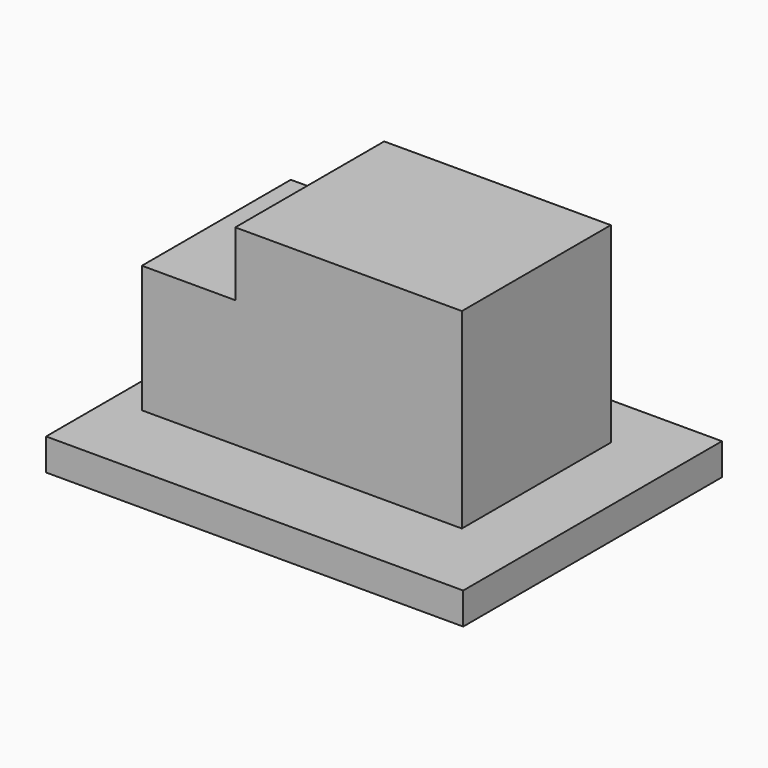
from build123d import *

# Parameters (mm, degrees)
F0_W     = 34.036
F0_H     = 26.3906
F1_DEPTH = 2.5908
F2_W     = 26.1112
F2_H     = 15.1892
F3_DEPTH = 15.621
F4_W     = 7.62
F4_H     = 5.2324
F5_DEPTH = 19.7622


with BuildPart() as f1:
    # F0 (on Top) → F1 (new body)
    with BuildSketch(Plane.XY):
        Rectangle(F0_W, F0_H)
    extrude(amount=F1_DEPTH)

    # F2 (on face) → F3 (join)
    with BuildSketch(Plane.XY.offset(2.5908)):
        with Locations((-1.4478, 1.0287)):
            Rectangle(F2_W, F2_H)
    extrude(amount=F3_DEPTH)

    # F4 (on face) → F5 (cut, through all)
    with BuildSketch(Plane.XZ.offset(6.5659)):
        with Locations((-10.6934, 15.5956)):
            Rectangle(F4_W, F4_H)
    extrude(amount=-F5_DEPTH, mode=Mode.SUBTRACT)


solid = f1.part
